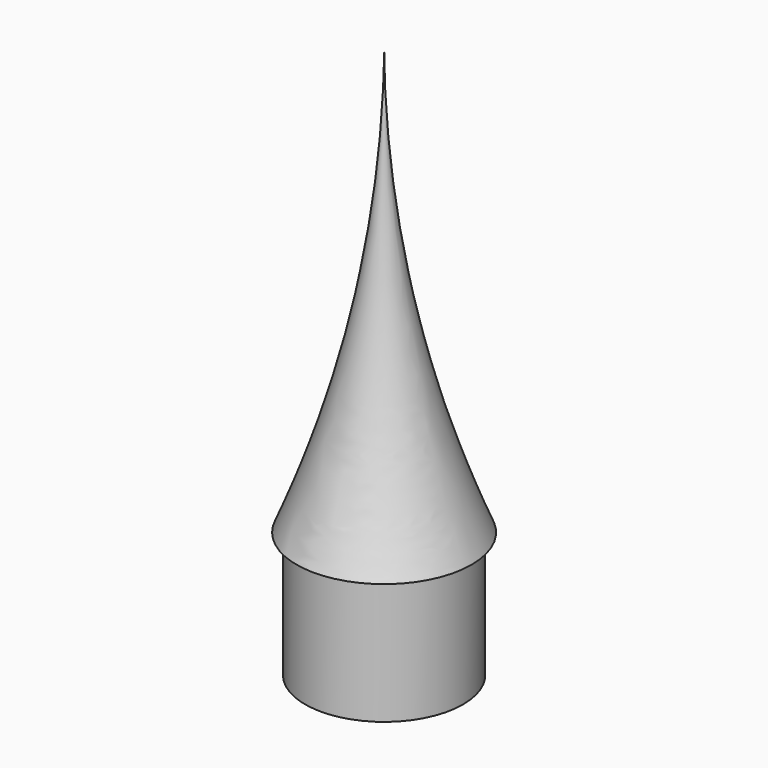
from build123d import *


with BuildPart() as f1:
    # F0 (on Front) → F1 (revolve)
    with BuildSketch(Plane.XZ):
        with BuildLine():
            Line((0, 61.680206), (0, 46.563182))
            ThreePointArc((0, 46.563182), (3.101177, 30.513984), (8.25, 15))
            Line((8.25, 15), (7.8, 15))
            Line((7.8, 15), (7.8, 0))
            Line((7.8, 0), (8.8, 0))
            Line((8.8, 0), (8.8, 14))
            Line((8.8, 14), (9.744111, 14))
            ThreePointArc((9.744111, 14), (2.533968, 37.362282), (0, 61.680206))
        make_face()
    revolve(axis=Axis((0, 0, 31.599835), (0, 0, 1)))


solid = f1.part
